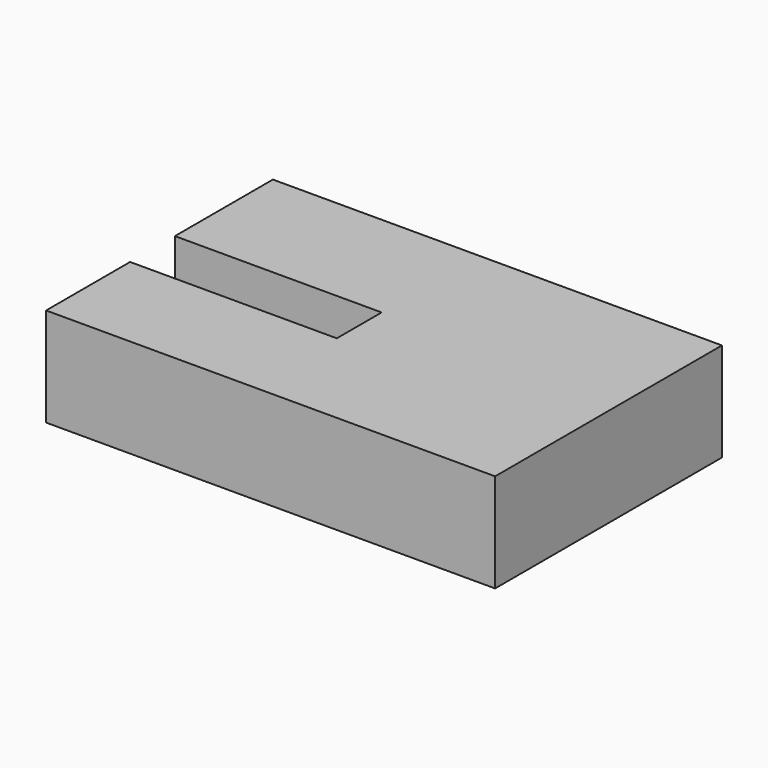
from build123d import *

# Parameters (mm, degrees)
F0_W     = 115.52757
F0_H     = 0.190954
F1_DEPTH = 25.4


with BuildPart() as f1:
    # F0 (on Top) → F1 (new body)
    with BuildSketch(Plane.XY):
        with Locations((4.582912, 45.829119)):
            Rectangle(F0_W, F0_H)
        Polygon((62.346697, 45.733642), (-53.180873, 45.733642), (-53.180873, 14.417076), (0, 14.417076), (0, 0), (-53.180873, 0), (-53.180873, -27.020084), (62.346697, -27.020084), align=None)
    extrude(amount=F1_DEPTH)


solid = f1.part
